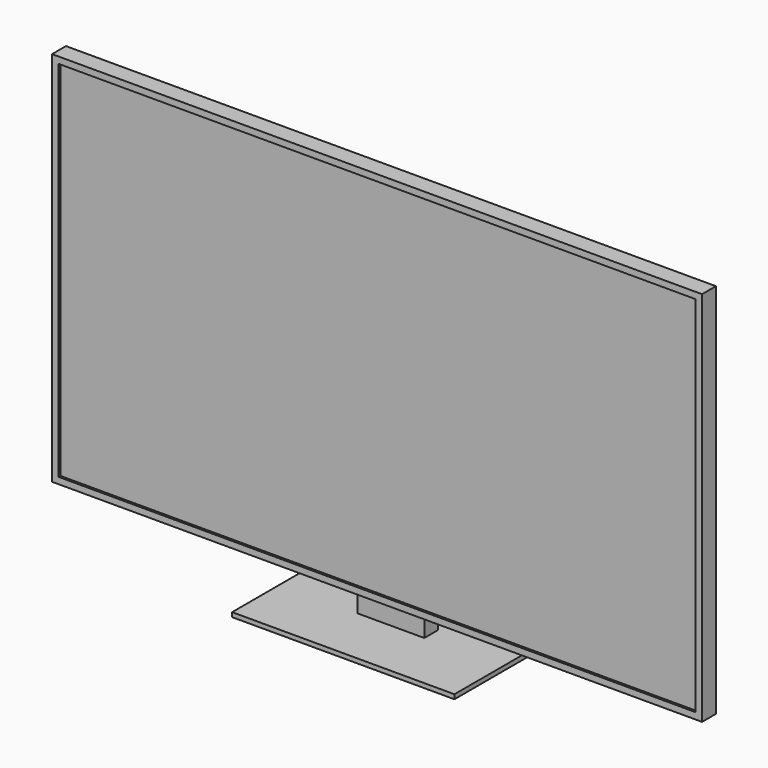
from build123d import *

# Parameters (mm, degrees)
F2_DEPTH      = 78
F3_DEPTH      = 10
F4_START      = -5
F4_DEPTH      = 5
F5_SIZE2      = 39
F5_SIZE       = 300
F6_DEPTH      = 250
F6_DEPTH_BACK = 250
F1_W          = 39
F1_H          = 423.5
F1_H_2        = 63
F7_DEPTH      = 75
F7_DEPTH_BACK = 75


with BuildPart() as f2:
    # F0 (on Front) → F2 (new body)
    with BuildSketch(Plane.XZ):
        Polygon((0, 920), (-731, 920), (-731, 496.5), (-716.4874498823, 496.5), (-716.4874498823, 905.4874498823), (0, 905.4874498823), align=None)
        Polygon((731, 920), (0, 920), (0, 905.4874498823), (716.4874498823, 905.4874498823), (716.4874498823, 87.5125501177), (-716.4874498823, 87.5125501177), (-716.4874498823, 496.5), (-731, 496.5), (-731, 73), (0, 73), (731, 73), align=None)
        Polygon((716.4874498823, 905.4874498823), (0, 905.4874498823), (-716.4874498823, 905.4874498823), (-716.4874498823, 496.5), (-716.4874498823, 87.5125501177), (716.4874498823, 87.5125501177), align=None)
    extrude(amount=-F2_DEPTH)

    # F0 (on Front) → F3 (cut)
    with BuildSketch(Plane.XZ):
        Polygon((716.4874498823, 905.4874498823), (0, 905.4874498823), (-716.4874498823, 905.4874498823), (-716.4874498823, 496.5), (-716.4874498823, 87.5125501177), (716.4874498823, 87.5125501177), align=None)
    extrude(amount=-F3_DEPTH, mode=Mode.SUBTRACT)

    # F5
    f5_edges = [f2.edges().sort_by_distance(p)[0] for p in [
        (0, 78, 920),
        (-731, 78, 496.5),
        (0, 78, 73),
        (731, 78, 496.5),
    ]]
    f5_side = f2.faces().sort_by_distance((0, 78, 496.5))[0]
    chamfer(f5_edges, length=F5_SIZE, length2=F5_SIZE2, reference=f5_side)



with BuildPart() as f4:
    # F0 (on Front) → F4 (new body)
    with BuildSketch(Plane.XZ.offset(F4_START)):
        Polygon((716.4874498823, 905.4874498823), (0, 905.4874498823), (-716.4874498823, 905.4874498823), (-716.4874498823, 496.5), (-716.4874498823, 87.5125501177), (716.4874498823, 87.5125501177), align=None)
    extrude(amount=-F4_DEPTH)


with BuildPart() as f6:
    # F1 (on Right) → F6 (new body, two sides)
    with BuildSketch(Plane.YZ) as f6_sk:
        Polygon((173, 10), (78, 10), (39, 10), (-95, 10), (-95, 0), (173, 0), align=None)
    extrude(amount=F6_DEPTH)
    extrude(f6_sk.sketch, amount=-F6_DEPTH_BACK)


with BuildPart() as f2_1:
    add(f2.part)

    add(f6.part)  # F7 merges F6
    # F1 (on Right) → F7 (join, two sides)
    with BuildSketch(Plane.YZ) as f7_sk:
        with Locations((58.5, 284.75)):
            Rectangle(F1_W, F1_H)
        with Locations((58.5, 41.5)):
            Rectangle(F1_W, F1_H_2)
    extrude(amount=F7_DEPTH)
    extrude(f7_sk.sketch, amount=-F7_DEPTH_BACK)


solid = Compound([f4.part, f2_1.part])
